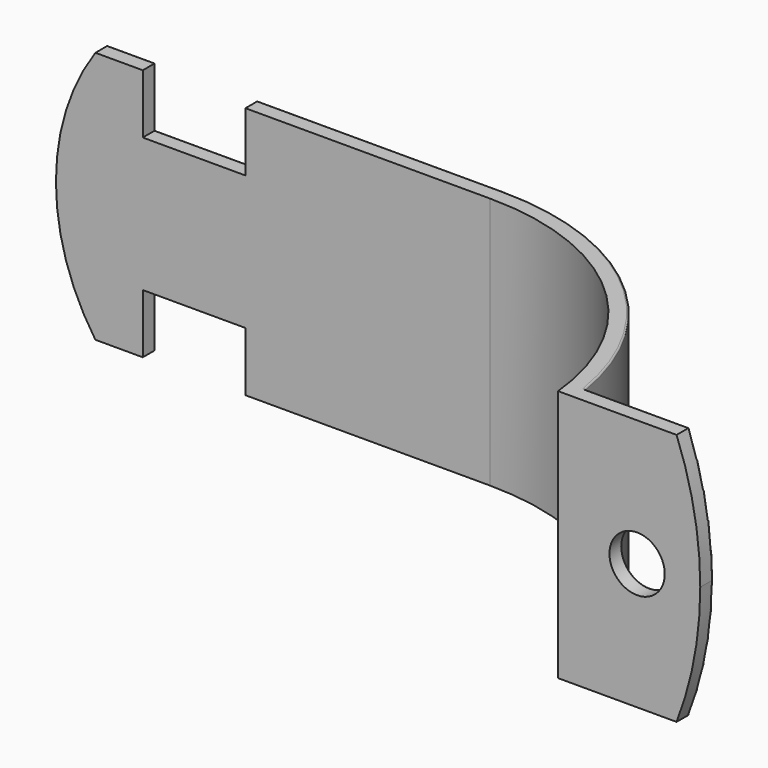
from build123d import *

# Parameters (mm, degrees)
F1_DEPTH = 16
F3_DEPTH = 12.5
F5_DEPTH = 12.5
F6_W     = 13
F6_H     = 7.5
F7_DEPTH = 12.5
F8_R     = 3.5
F9_DEPTH = 12.5
F10_R    = 0.2


with BuildPart() as f1:
    # F0 (on Top) → F1 (new body, symmetric)
    with BuildSketch(Plane.XY):
        with BuildLine():
            Line((-27.5, -1), (27.5, -1))
            ThreePointArc((27.5, -1), (48.3865985742, -9.0362658643), (58.5, -29))
            Line((58.5, -29), (76.5, -29))
            Line((76.5, -29), (76.5, -27))
            Line((76.5, -27), (60.2566787083, -27))
            ThreePointArc((60.2566787083, -27), (49.0464614264, -6.9539102055), (27.5, 1))
            Line((27.5, 1), (-27.5, 1))
            Line((-27.5, 1), (-27.5, -1))
        make_face()
    extrude(amount=F1_DEPTH, both=True)

    # F2 (on face) → F3 (cut, symmetric)
    with BuildSketch(Plane.XZ.offset(29)):
        with BuildLine():
            Line((76.5, 0), (76.5, 16))
            Line((76.5, 16), (73.5, 16))
            ThreePointArc((73.5, 16), (75.7435215896, 8.139410298), (76.5, 0))
        make_face()
        with BuildLine():
            Line((76.5, -16), (76.5, 0))
            ThreePointArc((76.5, 0), (75.7435215896, -8.139410298), (73.5, -16))
            Line((73.5, -16), (76.5, -16))
        make_face()
    extrude(amount=F3_DEPTH, both=True, mode=Mode.SUBTRACT)

    # F4 (on face) → F5 (cut, symmetric)
    with BuildSketch(Plane(origin=(0, 1, 0), x_dir=(-1, 0, 0), z_dir=(0, 1, 0))):
        with BuildLine():
            Line((27.5, -16), (27.5, -3.42e-08))
            ThreePointArc((27.5, -3.42e-08), (26.2208873777, -8.3815273234), (22.5, -16))
            Line((22.5, -16), (27.5, -16))
        make_face()
        with BuildLine():
            Line((27.5, -3.42e-08), (27.5, 16))
            Line((27.5, 16), (22.5, 16))
            ThreePointArc((22.5, 16), (26.2208873879, 8.3815272908), (27.5, -3.42e-08))
        make_face()
    extrude(amount=F5_DEPTH, both=True, mode=Mode.SUBTRACT)

    # F6 (on face) → F7 (cut, symmetric)
    with BuildSketch(Plane(origin=(0, 1, 0), x_dir=(-1, 0, 0), z_dir=(0, 1, 0))):
        with Locations((10, -12.25)):
            Rectangle(F6_W, F6_H)
        with Locations((10, 12.25)):
            Rectangle(F6_W, F6_H)
    extrude(amount=F7_DEPTH, both=True, mode=Mode.SUBTRACT)

    # F8 (on face) → F9 (cut, symmetric)
    with BuildSketch(Plane(origin=(0, -27, 0), x_dir=(-1, 0, 0), z_dir=(0, 1, 0))):
        with Locations((-68.5, 0)):
            Circle(F8_R)
    extrude(amount=F9_DEPTH, both=True, mode=Mode.SUBTRACT)

    # F10
    f10_edges = [f1.edges().sort_by_distance(p)[0] for p in [
        (76.5, -27, 0),
        (66.878339, -27, 16),
        (66.878339, -27, -16),
        (60.256679, -27, 0),
        (72, -27, 0),
        (49.046461, -6.95391, -16),
        (27.5, 1, 0),
        (49.046461, -6.95391, 16),
        (12, 1, 16),
        (-3.5, 1, 12.25),
        (-10, 1, 8.5),
        (-16.5, 1, 12.25),
        (-19.5, 1, 16),
        (-27.5, 1, 0),
        (-19.5, 1, -16),
        (-16.5, 1, -12.25),
        (-10, 1, -8.5),
        (-3.5, 1, -12.25),
        (12, 1, -16),
    ]]
    fillet(f10_edges, radius=F10_R)


solid = f1.part
